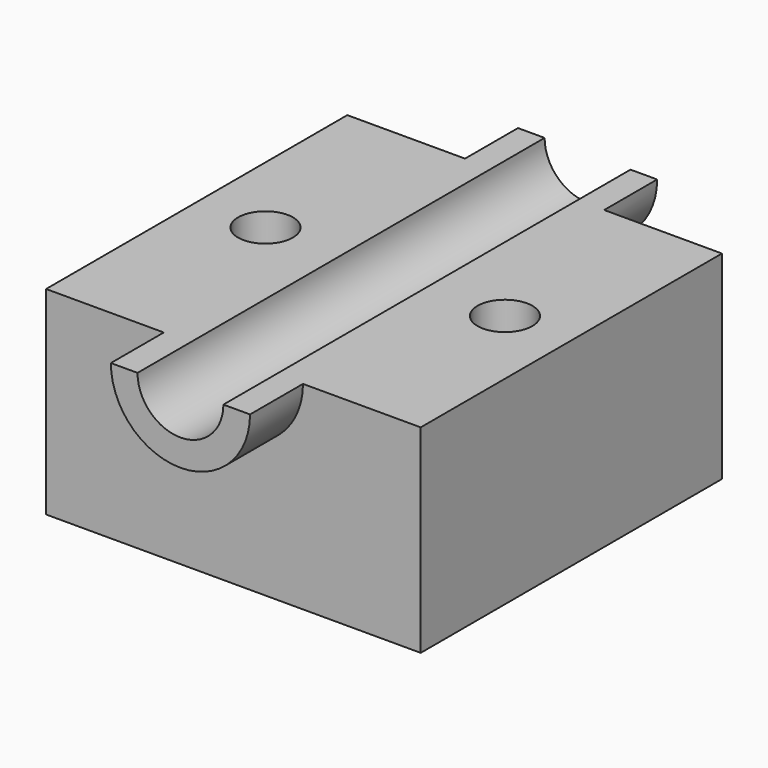
from build123d import *

# Parameters (mm, degrees)
F0_W     = 143.7808871269
F0_H     = 144.5161998272
F1_DEPTH = 76.2
F3_DEPTH = 144.5171998272
F5_DEPTH = 25.4
F7_DEPTH = 25.4
F8_R     = 10.5219569488
F9_DEPTH = 101.6


with BuildPart() as f1:
    # F0 (on Top) → F1 (new body)
    with BuildSketch(Plane.XY):
        Rectangle(F0_W, F0_H)
    extrude(amount=F1_DEPTH)

    # F2 (on face) → F3 (cut, through all)
    with BuildSketch(Plane.XZ.offset(72.2580999136)):
        with BuildLine():
            ThreePointArc((-16.4828058332, 76.2), (0, 59.7171941668), (16.4828058332, 76.2))
            Line((16.4828058332, 76.2), (-16.4828058332, 76.2))
        make_face()
    extrude(amount=-F3_DEPTH, mode=Mode.SUBTRACT)

    # F4 (on face) → F5 (join)
    with BuildSketch(Plane.XZ.offset(72.2580999136)):
        with BuildLine():
            Line((-16.4828058332, 76.2), (-26.7050843686, 76.2))
            ThreePointArc((-26.7050843686, 76.2), (0, 49.4949156314), (26.7050843686, 76.2))
            Line((26.7050843686, 76.2), (16.4828058332, 76.2))
            ThreePointArc((16.4828058332, 76.2), (0, 59.7171941668), (-16.4828058332, 76.2))
        make_face()
    extrude(amount=F5_DEPTH)

    # F6 (on face) → F7 (join)
    with BuildSketch(Plane(origin=(0, 72.2580999136, 0), x_dir=(-1, 0, 0), z_dir=(0, 1, 0))):
        with BuildLine():
            ThreePointArc((-26.7050843686, 76.2), (0, 49.4949156314), (26.7050843686, 76.2))
            Line((26.7050843686, 76.2), (16.4828058332, 76.2))
            ThreePointArc((16.4828058332, 76.2), (0, 59.7171941668), (-16.4828058332, 76.2))
            Line((-16.4828058332, 76.2), (-26.7050843686, 76.2))
        make_face()
    extrude(amount=F7_DEPTH)

    # F8 (on Top) → F9 (cut)
    with BuildSketch(Plane.XY):
        with Locations((46.426974237, 0)):
            Circle(F8_R)
        with Locations((-45.4818941653, 0)):
            Circle(F8_R)
    extrude(amount=F9_DEPTH, mode=Mode.SUBTRACT)


solid = f1.part
